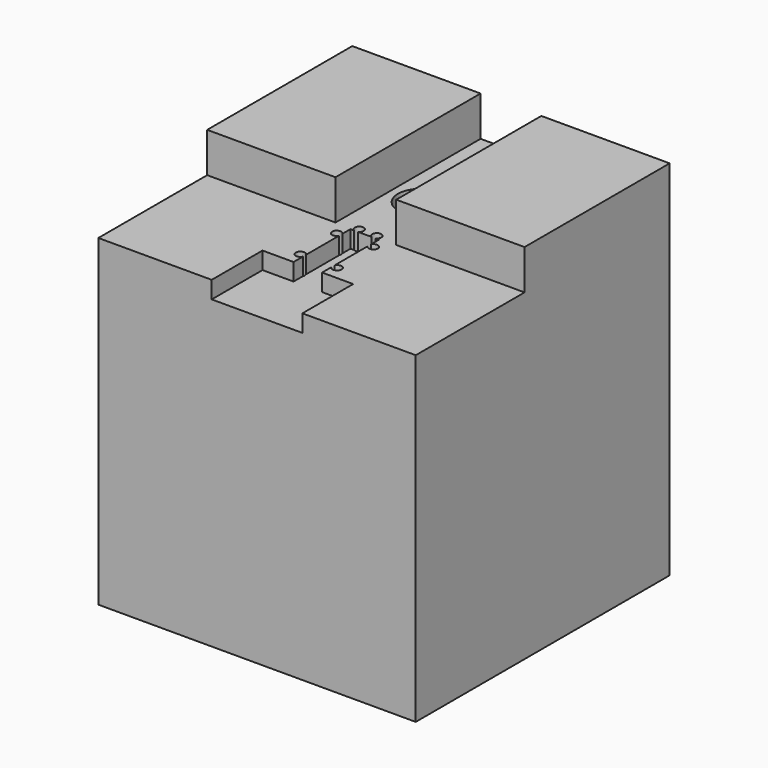
from build123d import *

# Parameters (mm, degrees)
F0_W      = 35
F0_H      = 35
F1_DEPTH  = 40
F2_R      = 2.5
F3_DEPTH  = 20
F5_DEPTH  = 4.4
F6_R      = 4.25
F7_DEPTH  = 21
F8_R      = 2.5
F9_DEPTH  = 14.6
F11_DEPTH = 1.9
F12_R     = 0.5
F13_DEPTH = 4


with BuildPart() as f1:
    # F0 (on Top) → F1 (new body)
    with BuildSketch(Plane.XY):
        Rectangle(F0_W, F0_H)
    extrude(amount=F1_DEPTH)

    # F2 (on face) → F3 (cut)
    with BuildSketch(Plane(origin=(0, 0, 0), x_dir=(1, 0, 0), z_dir=(0, 0, -1))):
        with Locations((-10, 0)):
            Circle(F2_R)
        with Locations((10, 0)):
            Circle(F2_R)
    extrude(amount=-F3_DEPTH, mode=Mode.SUBTRACT)

    # F4 (on face) → F5 (cut)
    with BuildSketch(Plane.XY.offset(40)):
        Polygon((-17.5, -17.5), (17.5, -17.5), (17.5, -2.5), (3.35, -2.5), (3.35, 17.5), (-3.35, 17.5), (-3.35, -2.5), (-17.5, -2.5), align=None)
    extrude(amount=-F5_DEPTH, mode=Mode.SUBTRACT)

    # F6 (on face) → F7 (cut)
    with BuildSketch(Plane(origin=(0, 0, 0), x_dir=(1, 0, 0), z_dir=(0, 0, -1))):
        with Locations((0, -5.05)):
            Circle(F6_R)
    extrude(amount=-F7_DEPTH, mode=Mode.SUBTRACT)

    # F8 (on face) → F9 (cut, through all)
    with BuildSketch(Plane(origin=(0, 0, 21), x_dir=(1, 0, 0), z_dir=(0, 0, -1))):
        with Locations((0, -5.05)):
            Circle(F8_R)
    extrude(amount=-F9_DEPTH, mode=Mode.SUBTRACT)

    # F10 (on face) → F11 (cut)
    with BuildSketch(Plane.XY.offset(35.6)):
        Polygon((-5, -17.5), (5, -17.5), (5, -10.5), (1.575, -10.5), (1.575, -2.65), (-1.575, -2.65), (-1.575, -10.5), (-5, -10.5), align=None)
    extrude(amount=-F11_DEPTH, mode=Mode.SUBTRACT)

    # F12 (on face) → F13 (cut)
    with BuildSketch(Plane.XY.offset(35.6)):
        with Locations((-2.025, -9)):
            Circle(F12_R)
        with Locations((-2.025, -4)):
            Circle(F12_R)
        with Locations((2.025, -9)):
            Circle(F12_R)
        with Locations((2.025, -4)):
            Circle(F12_R)
        with Locations((-0.975, -2.2)):
            Circle(F12_R)
        with Locations((0.975, -2.2)):
            Circle(F12_R)
    extrude(amount=-F13_DEPTH, mode=Mode.SUBTRACT)


solid = f1.part
